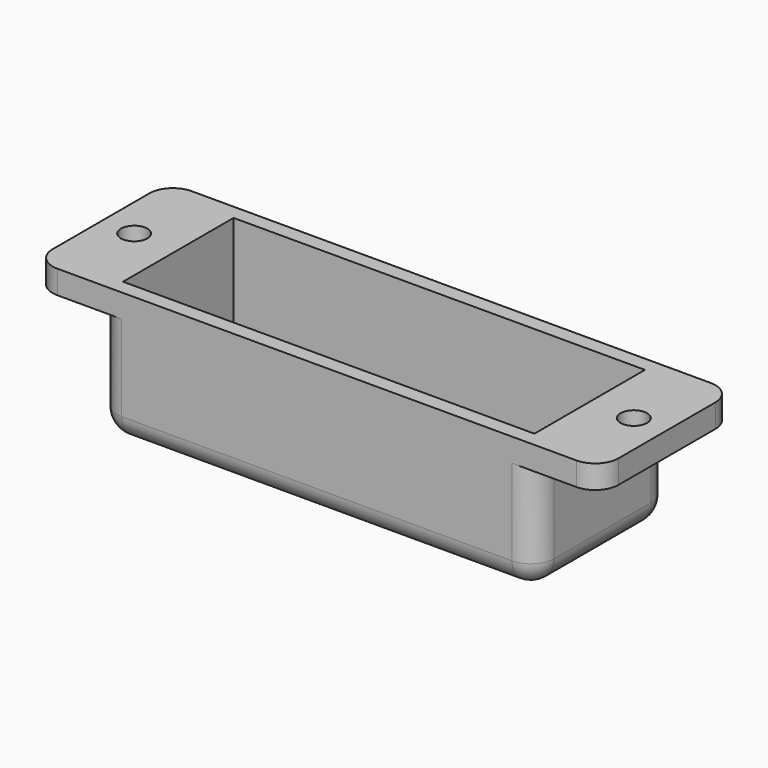
from build123d import *

# Parameters (mm, degrees)
SKETCH_W        = 72.5
SKETCH_H        = 21.5
PAD_DEPTH       = 17
SKETCH001_W     = 52.7
SKETCH001_H     = 17.7
POCKET_DEPTH    = 15
SKETCH002_W     = 48.2
SKETCH002_H     = 13.2
POCKET001_DEPTH = 5
SKETCH003_W     = 10
SKETCH003_H     = 28.534706
SKETCH003_W_2   = 11.202904
SKETCH003_H_2   = 28.537951
POCKET002_DEPTH = 14
SKETCH004_R     = 1.7
POCKET003_DEPTH = 5
SKETCH005_W     = 12
SKETCH005_H     = 2
PAD001_DEPTH    = 1
FILLET_R        = 0.99
FILLET001_R     = 3
FILLET002_R     = 3


with BuildPart() as part:
    # Sketch → Pad (new body)
    with BuildSketch(Plane.XY):
        Rectangle(SKETCH_W, SKETCH_H)
    extrude(amount=PAD_DEPTH)

    # Sketch001 → Pocket (cut)
    with BuildSketch(Plane.XY.offset(17)):
        Rectangle(SKETCH001_W, SKETCH001_H)
    extrude(amount=-POCKET_DEPTH, mode=Mode.SUBTRACT)

    # Sketch002 → Pocket001 (cut)
    with BuildSketch(Plane.XY.offset(2)):
        Rectangle(SKETCH002_W, SKETCH002_H)
    extrude(amount=-POCKET001_DEPTH, mode=Mode.SUBTRACT)

    # Sketch003 → Pocket002 (cut)
    with BuildSketch(Plane(origin=(0, 0, 0), x_dir=(1, 0, 0), z_dir=(0, 0, -1))):
        with Locations((-33, -0.267353)):
            Rectangle(SKETCH003_W, SKETCH003_H)
        with Locations((33.601452, -0.268975)):
            Rectangle(SKETCH003_W_2, SKETCH003_H_2)
    extrude(amount=-POCKET002_DEPTH, mode=Mode.SUBTRACT)

    # Sketch004 → Pocket003 (cut)
    with BuildSketch(Plane(origin=(0, 0, 14), x_dir=(1, 0, 0), z_dir=(0, 0, -1))):
        with Locations((32, 0)):
            Circle(SKETCH004_R)
        with Locations((-32, 0)):
            Circle(SKETCH004_R)
    extrude(amount=-POCKET003_DEPTH, mode=Mode.SUBTRACT)

    # Sketch005 → Pad001 (new body)
    with BuildSketch(Plane(origin=(0, -8.85, 0), x_dir=(-1, 0, 0), z_dir=(0, 1, 0))):
        with Locations((0, 14.2)):
            Rectangle(SKETCH005_W, SKETCH005_H)
    extrude(amount=PAD001_DEPTH)

    # Fillet
    fillet_edges = [part.edges().sort_by_distance(p)[0] for p in [
        (0, -7.85, 15.2),
        (0, -7.85, 13.2),
    ]]
    fillet(fillet_edges, radius=FILLET_R)

    # Fillet001
    fillet001_edges = [part.edges().sort_by_distance(p)[0] for p in [
        (36.25, 10.75, 15.5),
        (36.25, -10.75, 15.5),
        (-36.25, 10.75, 15.5),
        (-36.25, -10.75, 15.5),
    ]]
    fillet(fillet001_edges, radius=FILLET001_R)

    # Fillet002
    fillet002_edges = [part.edges().sort_by_distance(p)[0] for p in [
        (0, -10.75, 0),
        (-28, 0, 0),
        (0, 10.75, 0),
        (28, 0, 0),
        (28, 10.75, 7),
        (28, -10.75, 7),
        (-28, -10.75, 7),
        (-28, 10.75, 7),
    ]]
    fillet(fillet002_edges, radius=FILLET002_R)


solid = part.part
